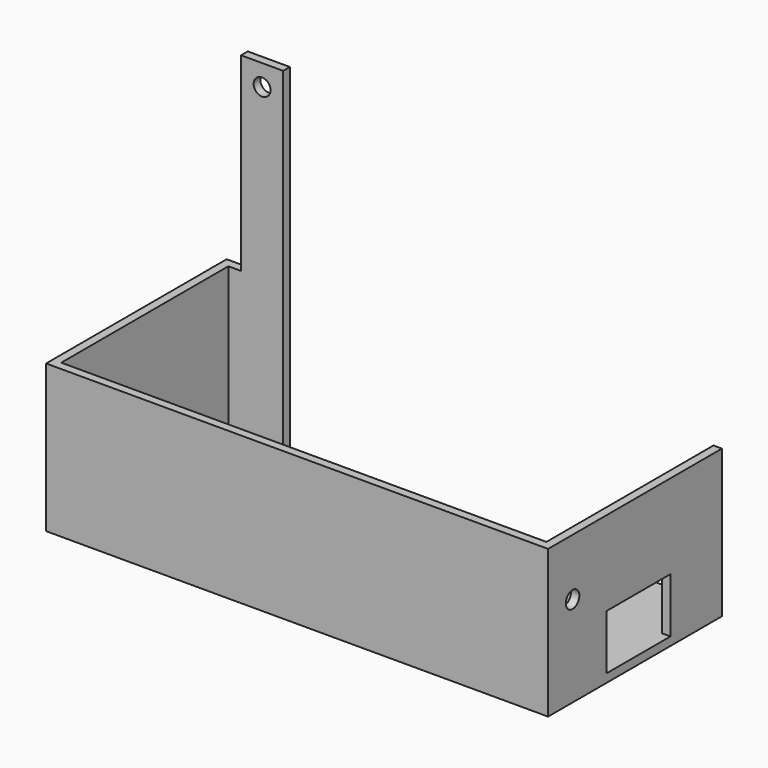
from build123d import *

# Parameters (mm, degrees)
F0_W      = 1190
F0_H      = 535
F1_DEPTH  = 350
F2_DEPTH  = 20
F3_R      = 20
F4_DEPTH  = 25
F5_W      = 100
F5_H      = 450
F5_R      = 20
F6_DEPTH  = 20
F8_DEPTH  = 50
F9_DEPTH  = 30
F5_W_2    = 1040
F5_H_2    = 350
F10_DEPTH = 20
F3_W      = 190
F3_H      = 130
F11_DEPTH = 20


with BuildPart() as f1:
    # F0 (on Top) → F1 (new body)
    with BuildSketch(Plane.XY):
        with Locations((595, 267.5)):
            Rectangle(F0_W, F0_H)
        Polygon((20, 20), (20, 515), (750, 515), (830, 515), (1170, 515), (1170, 20), align=None, mode=Mode.SUBTRACT)
    extrude(amount=F1_DEPTH)

    # F0 (on Top) → F2 (join)
    with BuildSketch(Plane.XY):
        with BuildLine():
            Line((750, 515), (20, 515))
            Line((20, 515), (20, 20))
            Line((20, 20), (1170, 20))
            Line((1170, 20), (1170, 515))
            Line((1170, 515), (830, 515))
            Line((830, 515), (830, 355))
            ThreePointArc((830, 355), (790, 315), (750, 355))
            Line((750, 355), (750, 515))
        make_face()
    extrude(amount=F2_DEPTH)

    # F3 (on face) → F4 (cut)
    with BuildSketch(Plane.YZ.offset(1190)):
        with Locations((72.5, 215)):
            Circle(F3_R)
    extrude(amount=-F4_DEPTH, mode=Mode.SUBTRACT)

    # F5 (on face) → F6 (join)
    with BuildSketch(Plane(origin=(0, 535, 0), x_dir=(-1, 0, 0), z_dir=(0, 1, 0))):
        with Locations((-100, 575)):
            Rectangle(F5_W, F5_H)
        with Locations((-100, 750)):
            Circle(F5_R, mode=Mode.SUBTRACT)
    extrude(amount=-F6_DEPTH)

    # F7 (on face) → F8 (cut)
    with BuildSketch(Plane(origin=(0, 0, 0), x_dir=(0, -1, 0), z_dir=(-1, 0, 0))):
        with BuildLine():
            ThreePointArc((-112, 60), (-85, 33), (-58, 60))
            ThreePointArc((-58, 60), (-85, 87), (-112, 60))
        make_face()
    extrude(amount=-F8_DEPTH, mode=Mode.SUBTRACT)

    # F5 (on face) → F10 (cut)
    with BuildSketch(Plane(origin=(0, 535, 0), x_dir=(-1, 0, 0), z_dir=(0, 1, 0))):
        with Locations((-670, 175)):
            Rectangle(F5_W_2, F5_H_2)
    extrude(amount=-F10_DEPTH, mode=Mode.SUBTRACT)

    # F3 (on face) → F11 (cut)
    with BuildSketch(Plane.YZ.offset(1190)):
        with Locations((267.5, 85)):
            Rectangle(F3_W, F3_H)
    extrude(amount=-F11_DEPTH, mode=Mode.SUBTRACT)


with BuildPart() as f9:
    # F7 (on face) → F9 (new body)
    with BuildSketch(Plane(origin=(0, 0, 0), x_dir=(0, -1, 0), z_dir=(-1, 0, 0))):
        with BuildLine():
            ThreePointArc((-45, 60), (-85, 100), (-125, 60))
            ThreePointArc((-125, 60), (-85, 20), (-45, 60))
        make_face()
        with BuildLine():
            ThreePointArc((-112, 60), (-85, 87), (-58, 60))
            ThreePointArc((-58, 60), (-85, 33), (-112, 60))
        make_face(mode=Mode.SUBTRACT)
    extrude(amount=-F9_DEPTH)


solid = Compound([f1.part, f9.part])
